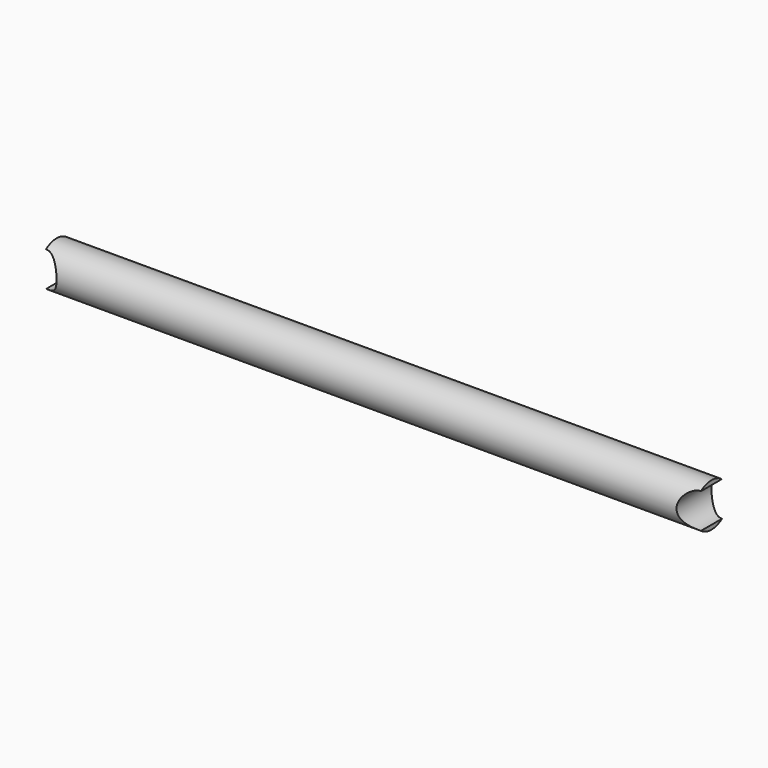
from build123d import *

# Parameters (mm, degrees)
F1_R          = 2.5
F2_DEPTH      = 37.5
F3_R          = 2
F4_DEPTH      = 2.501
F4_DEPTH_BACK = 2.501


with BuildPart() as f2:
    # F1 (on Right) → F2 (new body, symmetric)
    with BuildSketch(Plane.YZ):
        Circle(F1_R)
    extrude(amount=F2_DEPTH, both=True)

    # F3 (on Front) → F4 (cut, two sides)
    with BuildSketch(Plane.XZ) as f4_sk:
        with Locations((-37.5, 0)):
            Circle(F3_R)
        with Locations((37.5, 0)):
            Circle(F3_R)
    extrude(amount=-F4_DEPTH, mode=Mode.SUBTRACT)
    extrude(f4_sk.sketch, amount=F4_DEPTH_BACK, mode=Mode.SUBTRACT)


solid = f2.part
